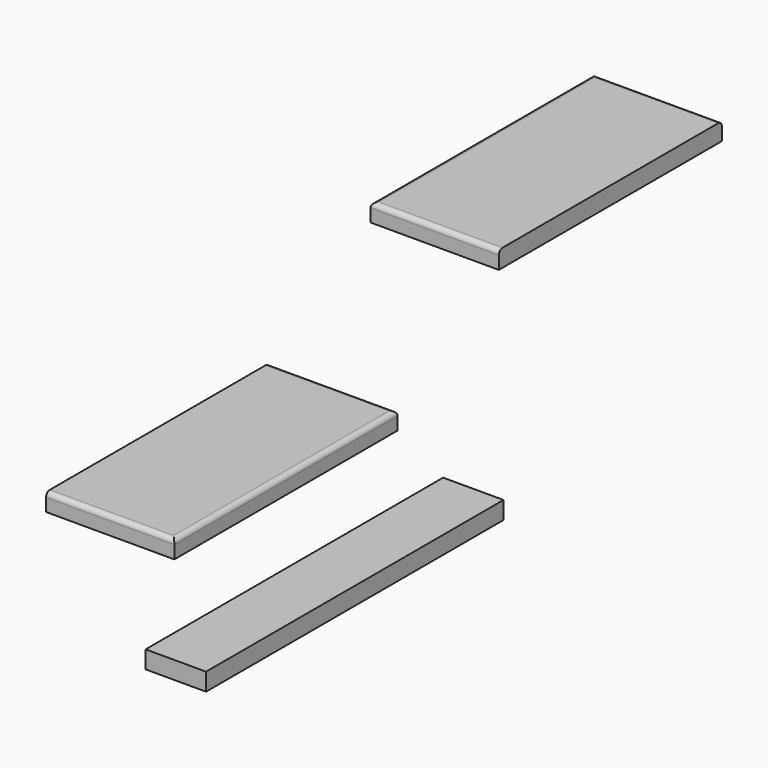
from build123d import *

# Parameters (mm, degrees)
F0_W     = 65
F0_H     = 400
F1_DEPTH = 19
F2_W     = 138
F2_H     = 300
F3_DEPTH = 19
F4_W     = 138
F4_H     = 300
F5_DEPTH = 19
F6_R     = 5
F6_2_R   = 5


with BuildPart() as f1:
    # F0 (on Top) → F1 (new body)
    with BuildSketch(Plane.XY):
        with Locations((-147.476863, 147.29089)):
            Rectangle(F0_W, F0_H)
    extrude(amount=F1_DEPTH)


with BuildPart() as f3:
    # F2 (on Top) → F3 (new body)
    with BuildSketch(Plane.XY):
        with Locations((-355.112985, 268.616241)):
            Rectangle(F2_W, F2_H)
    extrude(amount=F3_DEPTH)

    # F6#2
    f6_2_edges = [f3.edges().sort_by_distance(p)[0] for p in [
        (-355.112985, 418.616241, 19),
        (-286.112985, 268.616241, 19),
        (-355.112985, 118.616241, 19),
    ]]
    fillet(f6_2_edges, radius=F6_2_R)


with BuildPart() as f5:
    # F4 (on Top) → F5 (new body)
    with BuildSketch(Plane.XY):
        with Locations((-471.299738, 850.071842)):
            Rectangle(F4_W, F4_H)
    extrude(amount=F5_DEPTH)

    # F6
    f6_edges = [f5.edges().sort_by_distance(p)[0] for p in [
        (-540.299738, 850.071842, 19),
        (-471.299738, 700.071842, 19),
        (-471.299738, 1000.071842, 19),
    ]]
    fillet(f6_edges, radius=F6_R)


solid = Compound([f1.part, f3.part, f5.part])
